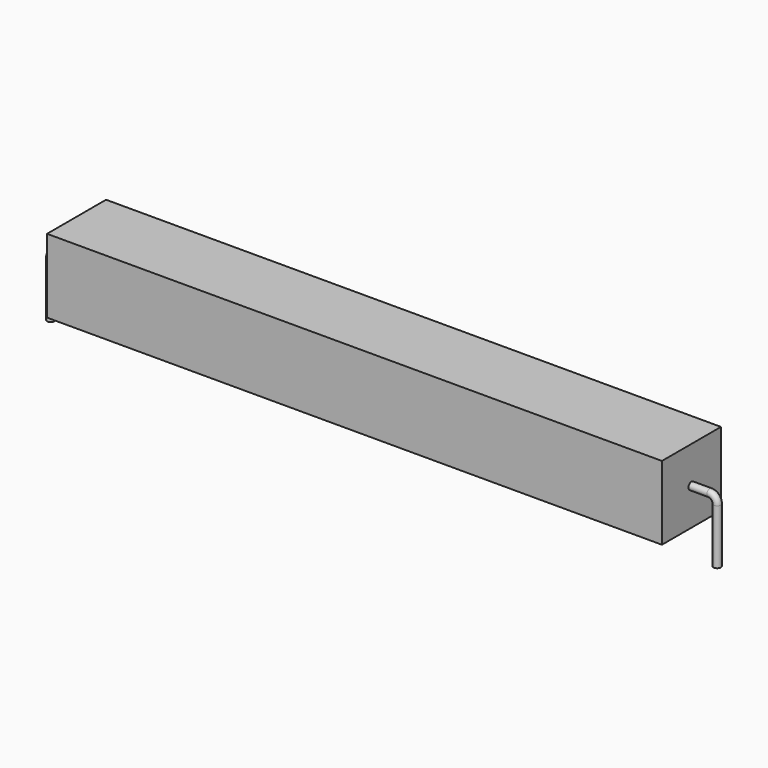
from build123d import *

# Parameters (mm, degrees)
SKETCH_R    = 0.45
SKETCH002_W = 75
SKETCH002_H = 9
PAD_DEPTH   = 4.5


with BuildPart() as sweep_body:
    # Sweep: sweep along a path in Sketch001
    with BuildLine(Plane.XZ) as sweep_path:
        Line((0, -3), (0, 3.7))
        ThreePointArc((0, 3.7), (0.263599, 4.336391), (0.899987, 4.6))
        Line((0.899987, 4.6), (80.38, 4.6))
        ThreePointArc((80.38, 4.6), (81.016396, 4.336396), (81.28, 3.7))
        Line((81.28, 3.7), (81.28, -3))
    # Sketch → Sweep (sweep)
    with BuildSketch(Plane.XY.offset(-2)):
        Circle(SKETCH_R)
    sweep(path=sweep_path.line)


with BuildPart() as pad:
    # Sketch002 → Pad (new body, symmetric)
    with BuildSketch(Plane.XZ):
        with Locations((40.64, 4.6)):
            Rectangle(SKETCH002_W, SKETCH002_H)
    extrude(amount=PAD_DEPTH, both=True)


solid = Compound([sweep_body.part, pad.part])
